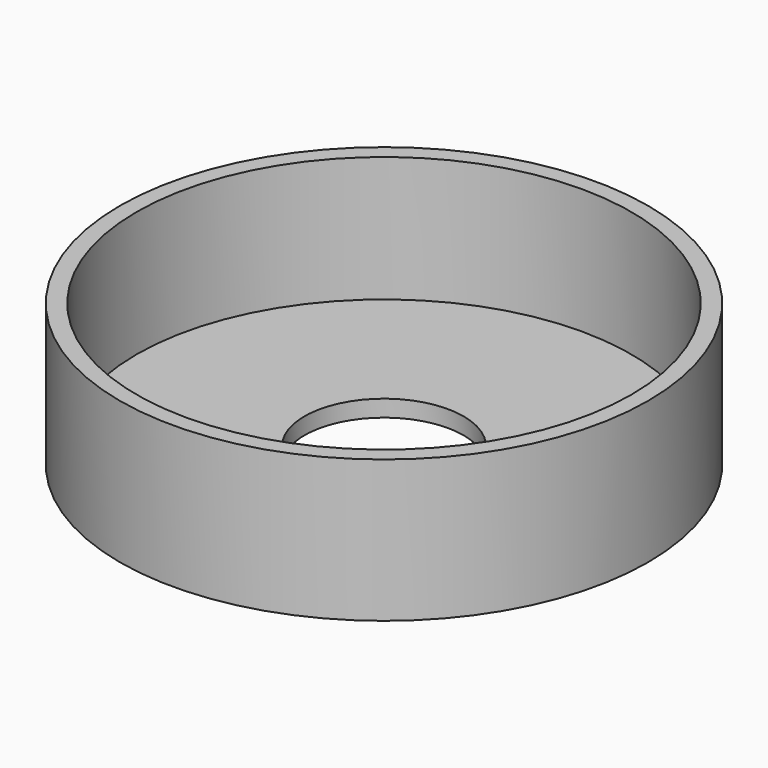
from build123d import *

# Parameters (mm, degrees)
SKETCH_R     = 31.6
SKETCH_R_2   = 9.525
PAD_DEPTH    = 17
SKETCH001_R  = 29.6
POCKET_DEPTH = 15.001


with BuildPart() as part:
    # Sketch → Pad (new body)
    with BuildSketch(Plane.XY):
        Circle(SKETCH_R)
        Circle(SKETCH_R_2, mode=Mode.SUBTRACT)
    extrude(amount=PAD_DEPTH)

    # Sketch001 (on DatumPlane) → Pocket (cut, through all)
    with BuildSketch(Plane.XY.offset(2)):
        Circle(SKETCH001_R)
    extrude(amount=POCKET_DEPTH, mode=Mode.SUBTRACT)


solid = part.part
